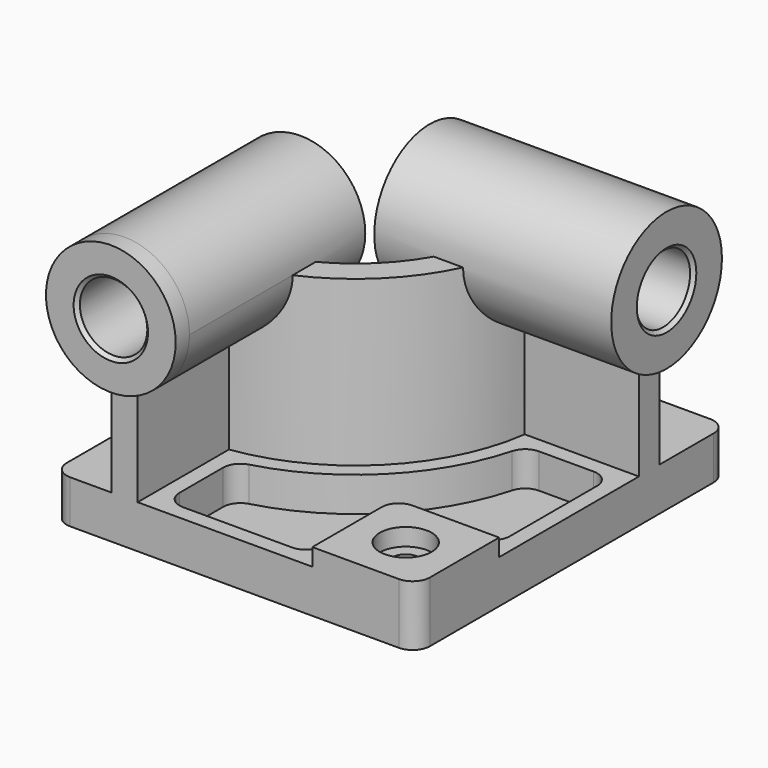
from build123d import *

# Parameters (mm, degrees)
F0_W            = 210
F0_H            = 225
F1_DEPTH        = 25
F3_DEPTH        = 95
F4_R            = 37.5
F5_DEPTH        = 10
F5_DEPTH_BACK   = 127
F6_R            = 40
F7_DEPTH        = 10
F7_DEPTH_BACK   = 127
F8_W            = 60
F8_H            = 60
F9_DEPTH        = 10
F10_R           = 10
F12_DEPTH       = 20
F14_D           = 15
F14_CBORE_D     = 30
F14_CBORE_DEPTH = 10
F15_R           = 10
F16_R           = 19.5
F17_DEPTH       = 220.001
F18_R           = 19.5
F19_DEPTH       = 235.001
F20_SIZE        = 2
F21_R           = 10


with BuildPart() as f1:
    # F0 (on Top) → F1 (new body)
    with BuildSketch(Plane.XY):
        Rectangle(F0_W, F0_H)
    extrude(amount=F1_DEPTH)

    # F2 (on face) → F3 (join)
    with BuildSketch(Plane.XY.offset(25)):
        with BuildLine():
            Line((-71, -32.5), (-71, -112.5))
            Line((-71, -112.5), (-56, -112.5))
            Line((-56, -112.5), (-56, -46.481817))
            ThreePointArc((-56, -46.481817), (7.488853, -14.988853), (38.981817, 48.5))
            Line((38.981817, 48.5), (105, 48.5))
            Line((105, 48.5), (105, 63.5))
            Line((105, 63.5), (25, 63.5))
            ThreePointArc((25, 63.5), (-3.117749, -4.382251), (-71, -32.5))
        make_face()
    extrude(amount=F3_DEPTH)

    # F4 (on face) → F5 (join, two sides)
    with BuildSketch(Plane.XZ.offset(112.5)) as f5_sk:
        with Locations((-63.5, 120)):
            Circle(F4_R)
    extrude(amount=F5_DEPTH)
    extrude(f5_sk.sketch, amount=-F5_DEPTH_BACK)

    # F6 (on face) → F7 (join, two sides)
    with BuildSketch(Plane.YZ.offset(105)) as f7_sk:
        with Locations((56, 120)):
            Circle(F6_R)
    extrude(amount=F7_DEPTH)
    extrude(f7_sk.sketch, amount=-F7_DEPTH_BACK)

    # F8 (on face) → F9 (join)
    with BuildSketch(Plane.XY.offset(25)):
        with Locations((75, -82.5)):
            Rectangle(F8_W, F8_H)
    extrude(amount=F9_DEPTH)

    # F10
    f10_edges = [f1.edges().sort_by_distance(p)[0] for p in [
        (45, -52.5, 30),
    ]]
    fillet(f10_edges, radius=F10_R)

    # F11 (on face) → F12 (cut)
    with BuildSketch(Plane.XY.offset(25)):
        with BuildLine():
            Line((-47, -54.075508), (-47, -103.5))
            Line((-47, -103.5), (36, -103.5))
            Line((36, -103.5), (36, -62.5))
            ThreePointArc((36, -62.5), (41.564971, -49.064971), (55, -43.5))
            Line((55, -43.5), (96, -43.5))
            Line((96, -43.5), (96, 39.5))
            Line((96, 39.5), (46.575508, 39.5))
            ThreePointArc((46.575508, 39.5), (13.852814, -21.352814), (-47, -54.075508))
        make_face()
    extrude(amount=-F12_DEPTH, mode=Mode.SUBTRACT)

    # F14 (through all)
    with Locations(Plane.XY.offset(35)):
        with Locations((75, -82.5)):
            CounterBoreHole(F14_D / 2, F14_CBORE_D / 2, F14_CBORE_DEPTH)

    # F15
    f15_edges = [f1.edges().sort_by_distance(p)[0] for p in [
        (36, -103.5, 15),
        (-47, -103.5, 15),
        (-47, -54.075508, 15),
        (96, 39.5, 15),
        (46.575508, 39.5, 15),
        (96, -43.5, 15),
    ]]
    fillet(f15_edges, radius=F15_R)

    # F16 (on face) → F17 (cut, through all)
    with BuildSketch(Plane.YZ.offset(115)):
        with Locations((56, 120)):
            Circle(F16_R)
    extrude(amount=-F17_DEPTH, mode=Mode.SUBTRACT)

    # F18 (on face) → F19 (cut, through all)
    with BuildSketch(Plane.XZ.offset(122.5)):
        with Locations((-63.5, 120)):
            Circle(F18_R)
    extrude(amount=-F19_DEPTH, mode=Mode.SUBTRACT)

    # F20
    f20_edges = [f1.edges().sort_by_distance(p)[0] for p in [
        (115, 36.5, 120),
        (-83, -122.5, 120),
        (-22, 36.5, 120),
        (-83, 14.5, 120),
    ]]
    chamfer(f20_edges, length=F20_SIZE)

    # F21
    f21_edges = [f1.edges().sort_by_distance(p)[0] for p in [
        (105, -112.5, 17.5),
        (105, 112.5, 12.5),
        (-105, -112.5, 12.5),
        (-105, 112.5, 12.5),
    ]]
    fillet(f21_edges, radius=F21_R)


solid = f1.part
